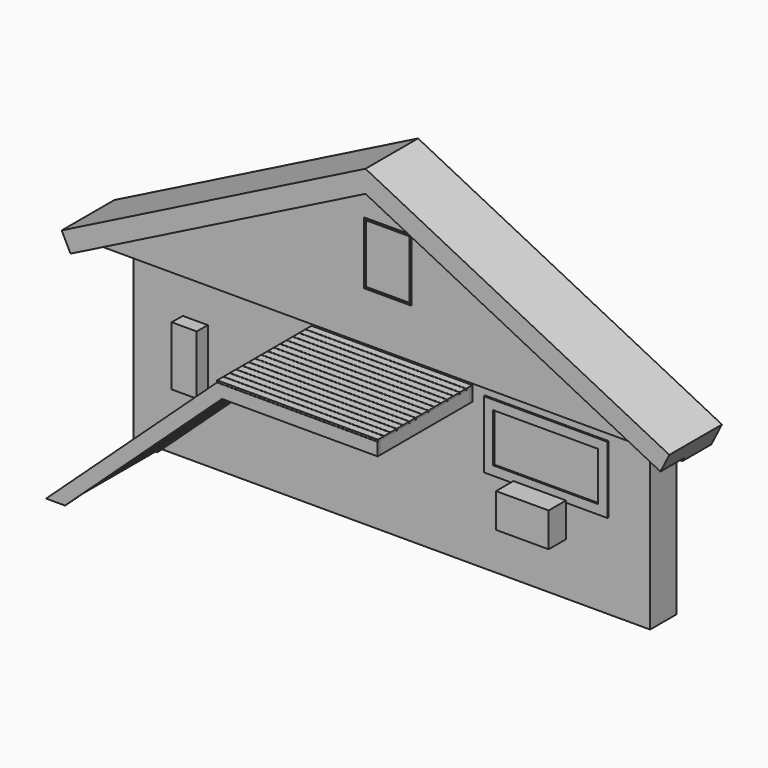
from build123d import *

# Parameters (mm, degrees)
F2_DEPTH  = 500
F4_DEPTH  = 50
F5_W      = 1880
F5_H      = 1020
F5_W_2    = 1600
F5_H_2    = 740
F6_DEPTH  = 25
F8_DEPTH  = 425
F10_DEPTH = 25
F0_W      = 380
F0_H      = 900
F11_DEPTH = 210
F13_START = 100
F12_W     = 800
F12_H     = 520
F13_DEPTH = 330
F14_W     = 720
F14_H     = 950
F14_W_2   = 660
F14_H_2   = 890
F15_DEPTH = 25
F18_DEPTH = 45
F21_DEPTH = 45
F22_W     = 45
F22_H     = 195
F23_DEPTH = 1710
F25_DEPTH = 45
F29_DEPTH = 45
F30_W     = 210
F30_H     = 50
F31_DEPTH = 1710
F32_W     = 2445
F32_H     = 115
F33_DEPTH = 28


with BuildPart() as f2:
    # F1 (on Front) → F2 (new body)
    with BuildSketch(Plane.XZ):
        Polygon((0, 2450), (0, 0), (7860, 0), (7860, 2450), (8391.9138834757, 2450), (8552.6324715678, 2769.0020460618), (3930, 5097.9619172333), (-692.6324715678, 2769.0020460618), (-531.9138834757, 2450), align=None)
    extrude(amount=-F2_DEPTH)

    # F3 (on Front) → F4 (join)
    with BuildSketch(Plane.XZ):
        Polygon((-692.6324715678, 2769.0020460618), (-531.9138834757, 2450), (8391.9138834757, 2450), (8552.6324715678, 2769.0020460618), (3930, 5097.9619172333), align=None)
    extrude(amount=F4_DEPTH)

    # F5 (on Front) → F6 (join)
    with BuildSketch(Plane.XZ):
        with Locations((6290, 1810)):
            Rectangle(F5_W, F5_H)
        with Locations((6290, 1810)):
            Rectangle(F5_W_2, F5_H_2, mode=Mode.SUBTRACT)
    extrude(amount=F6_DEPTH)

    # F7 (on face) → F8 (join)
    with BuildSketch(Plane.XZ.offset(50)):
        Polygon((-602.8152194723, 2646.2915688155), (0, 2950), (3930, 4930), (7860, 2950), (8462.8152194723, 2646.2915688155), (8395.3244569869, 2512.332631155), (8417.6509465969, 2501.0841707407), (8485.1417090824, 2635.0431084012), (8552.6324715678, 2769.0020460618), (3930, 5097.9619172333), (-692.6324715678, 2769.0020460618), (-625.1417090824, 2635.0431084012), (-557.6509465969, 2501.0841707407), (-535.3244569869, 2512.332631155), align=None)
    extrude(amount=F8_DEPTH)

    # F9 (on face) → F10 (join)
    with BuildSketch(Plane.XZ.offset(475)):
        Polygon((3930, 5097.9619172333), (-692.6324715678, 2769.0020460618), (-625.1417090824, 2635.0431084012), (-557.6509465969, 2501.0841707407), (3930, 4762.0380827667), (8417.6509465969, 2501.0841707407), (8485.1417090824, 2635.0431084012), (8552.6324715678, 2769.0020460618), align=None)
    extrude(amount=F10_DEPTH)

    # F0 (on Front) → F11 (join)
    with BuildSketch(Plane.XZ):
        with Locations((940, 1440)):
            Rectangle(F0_W, F0_H)
    extrude(amount=F11_DEPTH)

    # F14 (on face) → F15 (cut)
    with BuildSketch(Plane.XZ.offset(50)):
        with Locations((3910, 3665)):
            Rectangle(F14_W, F14_H)
        with Locations((3910, 3665)):
            Rectangle(F14_W_2, F14_H_2, mode=Mode.SUBTRACT)
    extrude(amount=-F15_DEPTH, mode=Mode.SUBTRACT)


with BuildPart() as f13:
    # F12 (on Front) → F13 (new body)
    with BuildSketch(Plane.XZ.offset(F13_START)):
        with Locations((6260, 1120)):
            Rectangle(F12_W, F12_H)
    extrude(amount=F13_DEPTH)


with BuildPart() as f18:
    # F17 (on offset) → F18 (new body)
    with BuildSketch(Plane.XZ.offset(50)):
        Polygon((5195, 2205), (5195, 2400), (2750, 2400), (2750, 2205), (2826.2418477105, 2205), align=None)
    extrude(amount=F18_DEPTH)

    # F24 (on offset) → F25 (join)
    with BuildSketch(Plane.XZ.offset(50)):
        Polygon((150, 0), (437.4918477105, 0), (2826.2418477105, 2205), (2750, 2205), (2750, 2400), align=None)
    extrude(amount=F25_DEPTH)


with BuildPart() as f21:
    # F20 (on offset) → F21 (new body)
    with BuildSketch(Plane.XZ.offset(1850)):
        Polygon((2826.2418477105, 2205), (5195, 2205), (5195, 2400), (2750, 2400), (2750, 2205), align=None)
    extrude(amount=-F21_DEPTH)

    # F28 (on offset) → F29 (join)
    with BuildSketch(Plane.XZ.offset(1850)):
        Polygon((150, 0), (437.4918477105, 0), (2826.2418477105, 2205), (2750, 2205), (2750, 2400), align=None)
    extrude(amount=-F29_DEPTH)


with BuildPart() as f23:
    # F22 (on face) → F23 (new body, through all)
    with BuildSketch(Plane.XZ.offset(95)):
        with Locations((3372.5, 2302.5)):
            Rectangle(F22_W, F22_H)
    extrude(amount=F23_DEPTH)


with BuildPart() as f23b:
    # F22 (on face) → F23, piece 2 (new body, through all)
    with BuildSketch(Plane.XZ.offset(95)):
        with Locations((3972.5, 2302.5)):
            Rectangle(F22_W, F22_H)
    extrude(amount=F23_DEPTH)


with BuildPart() as f23c:
    # F22 (on face) → F23, piece 3 (new body, through all)
    with BuildSketch(Plane.XZ.offset(95)):
        with Locations((4572.5, 2302.5)):
            Rectangle(F22_W, F22_H)
    extrude(amount=F23_DEPTH)


with BuildPart() as f23d:
    # F22 (on face) → F23, piece 4 (new body, through all)
    with BuildSketch(Plane.XZ.offset(95)):
        with Locations((2772.5, 2302.5)):
            Rectangle(F22_W, F22_H)
    extrude(amount=F23_DEPTH)


with BuildPart() as f23e:
    # F22 (on face) → F23, piece 5 (new body, through all)
    with BuildSketch(Plane.XZ.offset(95)):
        with Locations((5172.5, 2302.5)):
            Rectangle(F22_W, F22_H)
    extrude(amount=F23_DEPTH)


with BuildPart() as f31:
    # F30 (on face) → F31 (new body, through all)
    with BuildSketch(Plane.XZ.offset(95)):
        with Locations((486.4098383441, 175)):
            Rectangle(F30_W, F30_H)
    extrude(amount=F31_DEPTH)


with BuildPart() as f31b:
    # F30 (on face) → F31, piece 2 (new body, through all)
    with BuildSketch(Plane.XZ.offset(95)):
        with Locations((681.4098383441, 355)):
            Rectangle(F30_W, F30_H)
    extrude(amount=F31_DEPTH)


with BuildPart() as f31c:
    # F30 (on face) → F31, piece 3 (new body, through all)
    with BuildSketch(Plane.XZ.offset(95)):
        with Locations((876.4098383441, 535)):
            Rectangle(F30_W, F30_H)
    extrude(amount=F31_DEPTH)


with BuildPart() as f31d:
    # F30 (on face) → F31, piece 4 (new body, through all)
    with BuildSketch(Plane.XZ.offset(95)):
        with Locations((1071.4098383441, 715)):
            Rectangle(F30_W, F30_H)
    extrude(amount=F31_DEPTH)


with BuildPart() as f31e:
    # F30 (on face) → F31, piece 5 (new body, through all)
    with BuildSketch(Plane.XZ.offset(95)):
        with Locations((1266.4098383441, 895)):
            Rectangle(F30_W, F30_H)
    extrude(amount=F31_DEPTH)


with BuildPart() as f31f:
    # F30 (on face) → F31, piece 6 (new body, through all)
    with BuildSketch(Plane.XZ.offset(95)):
        with Locations((1461.4098383441, 1075)):
            Rectangle(F30_W, F30_H)
    extrude(amount=F31_DEPTH)


with BuildPart() as f31g:
    # F30 (on face) → F31, piece 7 (new body, through all)
    with BuildSketch(Plane.XZ.offset(95)):
        with Locations((1656.4098383441, 1255)):
            Rectangle(F30_W, F30_H)
    extrude(amount=F31_DEPTH)


with BuildPart() as f31h:
    # F30 (on face) → F31, piece 8 (new body, through all)
    with BuildSketch(Plane.XZ.offset(95)):
        with Locations((1851.4098383441, 1435)):
            Rectangle(F30_W, F30_H)
    extrude(amount=F31_DEPTH)


with BuildPart() as f31i:
    # F30 (on face) → F31, piece 9 (new body, through all)
    with BuildSketch(Plane.XZ.offset(95)):
        with Locations((2046.4098383441, 1615)):
            Rectangle(F30_W, F30_H)
    extrude(amount=F31_DEPTH)


with BuildPart() as f31j:
    # F30 (on face) → F31, piece 10 (new body, through all)
    with BuildSketch(Plane.XZ.offset(95)):
        with Locations((2241.4098383441, 1795)):
            Rectangle(F30_W, F30_H)
    extrude(amount=F31_DEPTH)


with BuildPart() as f31k:
    # F30 (on face) → F31, piece 11 (new body, through all)
    with BuildSketch(Plane.XZ.offset(95)):
        with Locations((2436.4098383441, 1975)):
            Rectangle(F30_W, F30_H)
    extrude(amount=F31_DEPTH)


with BuildPart() as f31l:
    # F30 (on face) → F31, piece 12 (new body, through all)
    with BuildSketch(Plane.XZ.offset(95)):
        with Locations((2631.4098383441, 2155)):
            Rectangle(F30_W, F30_H)
    extrude(amount=F31_DEPTH)


with BuildPart() as f33:
    # F32 (on face) → F33 (new body)
    with BuildSketch(Plane.XY.offset(2400)):
        with Locations((3972.5, -107.5)):
            Rectangle(F32_W, F32_H)
    extrude(amount=F33_DEPTH)


with BuildPart() as f33b:
    # F32 (on face) → F33, piece 2 (new body)
    with BuildSketch(Plane.XY.offset(2400)):
        with Locations((3972.5, -227.5)):
            Rectangle(F32_W, F32_H)
    extrude(amount=F33_DEPTH)


with BuildPart() as f33c:
    # F32 (on face) → F33, piece 3 (new body)
    with BuildSketch(Plane.XY.offset(2400)):
        with Locations((3972.5, -347.5)):
            Rectangle(F32_W, F32_H)
    extrude(amount=F33_DEPTH)


with BuildPart() as f33d:
    # F32 (on face) → F33, piece 4 (new body)
    with BuildSketch(Plane.XY.offset(2400)):
        with Locations((3972.5, -467.5)):
            Rectangle(F32_W, F32_H)
    extrude(amount=F33_DEPTH)


with BuildPart() as f33e:
    # F32 (on face) → F33, piece 5 (new body)
    with BuildSketch(Plane.XY.offset(2400)):
        with Locations((3972.5, -587.5)):
            Rectangle(F32_W, F32_H)
    extrude(amount=F33_DEPTH)


with BuildPart() as f33f:
    # F32 (on face) → F33, piece 6 (new body)
    with BuildSketch(Plane.XY.offset(2400)):
        with Locations((3972.5, -707.5)):
            Rectangle(F32_W, F32_H)
    extrude(amount=F33_DEPTH)


with BuildPart() as f33g:
    # F32 (on face) → F33, piece 7 (new body)
    with BuildSketch(Plane.XY.offset(2400)):
        with Locations((3972.5, -827.5)):
            Rectangle(F32_W, F32_H)
    extrude(amount=F33_DEPTH)


with BuildPart() as f33h:
    # F32 (on face) → F33, piece 8 (new body)
    with BuildSketch(Plane.XY.offset(2400)):
        with Locations((3972.5, -947.5)):
            Rectangle(F32_W, F32_H)
    extrude(amount=F33_DEPTH)


with BuildPart() as f33i:
    # F32 (on face) → F33, piece 9 (new body)
    with BuildSketch(Plane.XY.offset(2400)):
        with Locations((3972.5, -1067.5)):
            Rectangle(F32_W, F32_H)
    extrude(amount=F33_DEPTH)


with BuildPart() as f33j:
    # F32 (on face) → F33, piece 10 (new body)
    with BuildSketch(Plane.XY.offset(2400)):
        with Locations((3972.5, -1187.5)):
            Rectangle(F32_W, F32_H)
    extrude(amount=F33_DEPTH)


with BuildPart() as f33k:
    # F32 (on face) → F33, piece 11 (new body)
    with BuildSketch(Plane.XY.offset(2400)):
        with Locations((3972.5, -1307.5)):
            Rectangle(F32_W, F32_H)
    extrude(amount=F33_DEPTH)


with BuildPart() as f33l:
    # F32 (on face) → F33, piece 12 (new body)
    with BuildSketch(Plane.XY.offset(2400)):
        with Locations((3972.5, -1427.5)):
            Rectangle(F32_W, F32_H)
    extrude(amount=F33_DEPTH)


with BuildPart() as f33m:
    # F32 (on face) → F33, piece 13 (new body)
    with BuildSketch(Plane.XY.offset(2400)):
        with Locations((3972.5, -1547.5)):
            Rectangle(F32_W, F32_H)
    extrude(amount=F33_DEPTH)


with BuildPart() as f33n:
    # F32 (on face) → F33, piece 14 (new body)
    with BuildSketch(Plane.XY.offset(2400)):
        with Locations((3972.5, -1667.5)):
            Rectangle(F32_W, F32_H)
    extrude(amount=F33_DEPTH)


with BuildPart() as f33o:
    # F32 (on face) → F33, piece 15 (new body)
    with BuildSketch(Plane.XY.offset(2400)):
        with Locations((3972.5, -1787.5)):
            Rectangle(F32_W, F32_H)
    extrude(amount=F33_DEPTH)


solid = Compound([f2.part, f13.part, f18.part, f21.part, f23.part, f23b.part, f23c.part, f23d.part, f23e.part, f31.part, f31b.part, f31c.part, f31d.part, f31e.part, f31f.part, f31g.part, f31h.part, f31i.part, f31j.part, f31k.part, f31l.part, f33.part, f33b.part, f33c.part, f33d.part, f33e.part, f33f.part, f33g.part, f33h.part, f33i.part, f33j.part, f33k.part, f33l.part, f33m.part, f33n.part, f33o.part])
